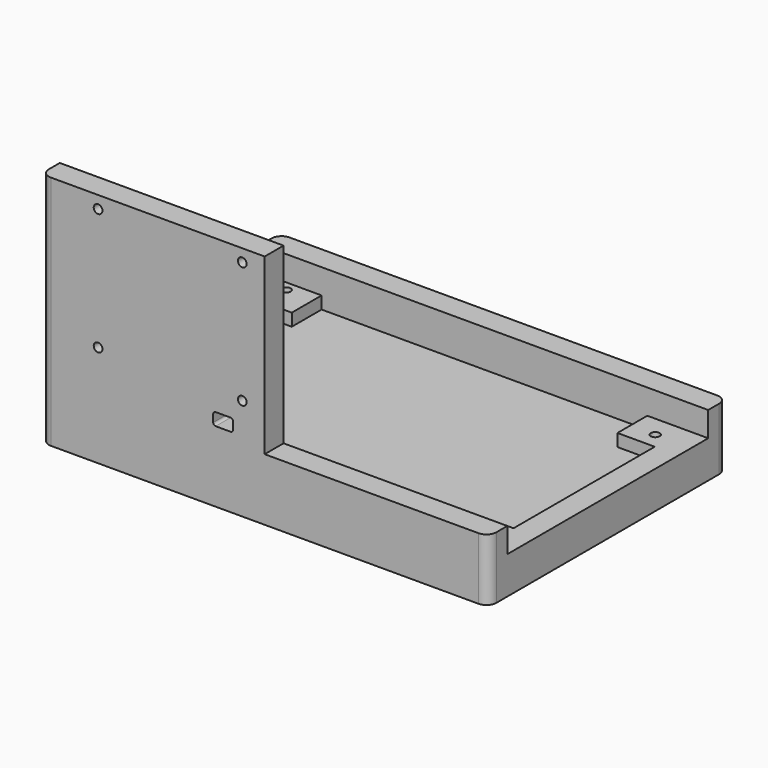
from build123d import *

# Parameters (mm, degrees)
SKETCH_W        = 161
SKETCH_H        = 101
PAD_DEPTH       = 10
SKETCH001_W     = 15
SKETCH001_H     = 15
PAD001_DEPTH    = 5
SKETCH003_R     = 1.775
HOLE_DEPTH      = 5
HOLE_TIPS_R     = 1.775
SKETCH005_W     = 180
SKETCH005_H     = 120
SKETCH005_W_2   = 161
SKETCH005_H_2   = 101
PAD002_DEPTH    = 25
SKETCH006_W     = 9.5
SKETCH006_H     = 101
POCKET_DEPTH    = 10
SKETCH007_W     = 9.5
SKETCH007_H     = 101
POCKET001_DEPTH = 10
SKETCH008_W     = 90
SKETCH008_H     = 9.5
PAD003_DEPTH    = 70
SKETCH009_R     = 1.75
HOLE001_DEPTH   = 25
SKETCH010_W     = 8
SKETCH010_H     = 5
POCKET002_DEPTH = 10
FILLET_R        = 1
FILLET001_R     = 4


with BuildPart() as part:
    # Sketch → Pad (new body)
    with BuildSketch(Plane.XY):
        Rectangle(SKETCH_W, SKETCH_H)
    extrude(amount=PAD_DEPTH)

    # Sketch001 (on Face6 of Pad) → Pad001 (join)
    with BuildSketch(Plane.XY.offset(10)):
        with Locations((-73, 43)):
            Rectangle(SKETCH001_W, SKETCH001_H)
        with Locations((-73, -43)):
            Rectangle(SKETCH001_W, SKETCH001_H)
        with Locations((73, -43)):
            Rectangle(SKETCH001_W, SKETCH001_H)
        with Locations((73, 43)):
            Rectangle(SKETCH001_W, SKETCH001_H)
    extrude(amount=PAD001_DEPTH)

    # Sketch003 (on Face25 of Pad001) → Hole (cut)
    with BuildSketch(Plane.XY.offset(15)):
        with Locations((-76.5, -46.5)):
            Circle(SKETCH003_R)
        with Locations((-76.5, 46.5)):
            Circle(SKETCH003_R)
        with Locations((75.5, -42)):
            Circle(SKETCH003_R)
        with Locations((75.5, 42)):
            Circle(SKETCH003_R)
    extrude(amount=-HOLE_DEPTH, mode=Mode.SUBTRACT)

    # Hole tips → Hole tip 1 section 0
    with BuildSketch(Plane.XY.offset(10), mode=Mode.PRIVATE) as hole_tip_1_s0:
        with Locations((-76.5, -46.5)):
            Circle(HOLE_TIPS_R)
    loft([hole_tip_1_s0.sketch, Vertex(-76.5, -46.5, 8.933472)], mode=Mode.SUBTRACT)

    # Hole tips → Hole tip 2 section 0
    with BuildSketch(Plane.XY.offset(10), mode=Mode.PRIVATE) as hole_tip_2_s0:
        with Locations((-76.5, 46.5)):
            Circle(HOLE_TIPS_R)
    loft([hole_tip_2_s0.sketch, Vertex(-76.5, 46.5, 8.933472)], mode=Mode.SUBTRACT)

    # Hole tips → Hole tip 3 section 0
    with BuildSketch(Plane.XY.offset(10), mode=Mode.PRIVATE) as hole_tip_3_s0:
        with Locations((75.5, -42)):
            Circle(HOLE_TIPS_R)
    loft([hole_tip_3_s0.sketch, Vertex(75.5, -42, 8.933472)], mode=Mode.SUBTRACT)

    # Hole tips → Hole tip 4 section 0
    with BuildSketch(Plane.XY.offset(10), mode=Mode.PRIVATE) as hole_tip_4_s0:
        with Locations((75.5, 42)):
            Circle(HOLE_TIPS_R)
    loft([hole_tip_4_s0.sketch, Vertex(75.5, 42, 8.933472)], mode=Mode.SUBTRACT)

    # Sketch005 → Pad002 (join)
    with BuildSketch(Plane.XY):
        Rectangle(SKETCH005_W, SKETCH005_H)
        Rectangle(SKETCH005_W_2, SKETCH005_H_2, mode=Mode.SUBTRACT)
    extrude(amount=PAD002_DEPTH)

    # Sketch006 (on Face7 of Pad002) → Pocket (cut)
    with BuildSketch(Plane.XY.offset(25)):
        with Locations((85.25, 0)):
            Rectangle(SKETCH006_W, SKETCH006_H)
    extrude(amount=-POCKET_DEPTH, mode=Mode.SUBTRACT)

    # Sketch007 (on Face7 of Pocket) → Pocket001 (cut)
    with BuildSketch(Plane.XY.offset(25)):
        with Locations((-85.25, 0)):
            Rectangle(SKETCH007_W, SKETCH007_H)
    extrude(amount=-POCKET001_DEPTH, mode=Mode.SUBTRACT)

    # Sketch008 (on Face7 of Pocket001) → Pad003 (join)
    with BuildSketch(Plane.XY.offset(25)):
        with Locations((-45, -55.25)):
            Rectangle(SKETCH008_W, SKETCH008_H)
    extrude(amount=PAD003_DEPTH)

    # Sketch009 (on Face18 of Pad003) → Hole001 (cut)
    with BuildSketch(Plane(origin=(0, -50.5, 0), x_dir=(-1, 0, 0), z_dir=(0, 1, 0))):
        with Locations((67, 90)):
            Circle(SKETCH009_R)
        with Locations((9, 90)):
            Circle(SKETCH009_R)
        with Locations((9, 41)):
            Circle(SKETCH009_R)
        with Locations((67, 41)):
            Circle(SKETCH009_R)
    extrude(amount=-HOLE001_DEPTH, mode=Mode.SUBTRACT)

    # Sketch010 (on Face18 of Hole001) → Pocket002 (cut)
    with BuildSketch(Plane(origin=(0, -50.5, 0), x_dir=(-1, 0, 0), z_dir=(0, 1, 0))):
        with Locations((16.7, 31)):
            Rectangle(SKETCH010_W, SKETCH010_H)
    extrude(amount=-POCKET002_DEPTH, mode=Mode.SUBTRACT)

    # Fillet
    fillet_edges = [part.edges().sort_by_distance(p)[0] for p in [
        (-20.7, -55.25, 33.5),
        (-12.7, -55.25, 33.5),
        (-20.7, -55.25, 28.5),
        (-12.7, -55.25, 28.5),
    ]]
    fillet(fillet_edges, radius=FILLET_R)

    # Fillet001
    fillet001_edges = [part.edges().sort_by_distance(p)[0] for p in [
        (90, -60, 12.5),
        (90, 60, 12.5),
        (-90, 60, 12.5),
        (-90, -60, 12.5),
        (-90, -60, 60),
    ]]
    fillet(fillet001_edges, radius=FILLET001_R)


solid = part.part
